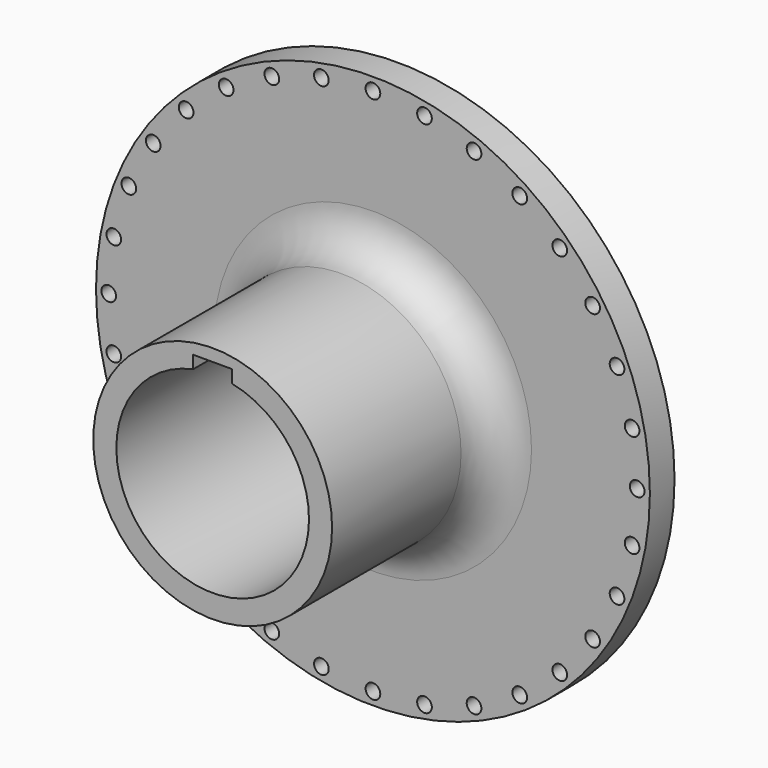
from build123d import *

# Parameters (mm, degrees)
F0_R      = 359.41
F1_DEPTH  = 300
F2_R      = 504.3357911894
F2_R_2    = 155
F3_DEPTH  = 260
F4_R      = 50.8
F5_R      = 125
F6_DEPTH  = 708.66
F7_R      = 9.525
F8_DEPTH  = 109.22
F10_DEPTH = 340.868


with BuildPart() as f1:
    # F0 (on Front) → F1 (new body)
    with BuildSketch(Plane.XZ):
        Circle(F0_R)
    extrude(amount=F1_DEPTH)

    # F2 (on face) → F3 (cut)
    with BuildSketch(Plane.XZ.offset(300)):
        Circle(F2_R)
        Circle(F2_R_2, mode=Mode.SUBTRACT)
    extrude(amount=-F3_DEPTH, mode=Mode.SUBTRACT)

    # F4
    f4_edges = [f1.edges().sort_by_distance(p)[0] for p in [
        (-155, -40, 0),
    ]]
    fillet(f4_edges, radius=F4_R)

    # F5 (on face) → F6 (cut)
    with BuildSketch(Plane.XZ.offset(300)):
        Circle(F5_R)
    extrude(amount=-F6_DEPTH, mode=Mode.SUBTRACT)

    # F7 (on face) → F8 (cut)
    with BuildSketch(Plane.XZ.offset(40)):
        with Locations((0, 342.9)):
            Circle(F7_R)
        with Locations((-66.8964714193, 336.3112726503)):
            Circle(F7_R)
        with Locations((-131.222148958, 316.7982916981)):
            Circle(F7_R)
        with Locations((-190.5050329024, 285.1109300585)):
            Circle(F7_R)
        with Locations((-242.4669152689, 242.4669152689)):
            Circle(F7_R)
        with Locations((-285.1109300585, 190.5050329024)):
            Circle(F7_R)
        with Locations((-316.7982916981, 131.222148958)):
            Circle(F7_R)
        with Locations((-336.3112726503, 66.8964714193)):
            Circle(F7_R)
        with Locations((-342.9, 0)):
            Circle(F7_R)
        with Locations((-336.3112726503, -66.8964714193)):
            Circle(F7_R)
        with Locations((-316.7982916981, -131.222148958)):
            Circle(F7_R)
        with Locations((-285.1109300585, -190.5050329024)):
            Circle(F7_R)
        with Locations((-242.4669152689, -242.4669152689)):
            Circle(F7_R)
        with Locations((-190.5050329024, -285.1109300585)):
            Circle(F7_R)
        with Locations((-131.222148958, -316.7982916981)):
            Circle(F7_R)
        with Locations((-66.8964714193, -336.3112726503)):
            Circle(F7_R)
        with Locations((0, -342.9)):
            Circle(F7_R)
        with Locations((66.8964714193, -336.3112726503)):
            Circle(F7_R)
        with Locations((131.222148958, -316.7982916981)):
            Circle(F7_R)
        with Locations((190.5050329024, -285.1109300585)):
            Circle(F7_R)
        with Locations((242.4669152689, -242.4669152689)):
            Circle(F7_R)
        with Locations((285.1109300585, -190.5050329024)):
            Circle(F7_R)
        with Locations((316.7982916981, -131.222148958)):
            Circle(F7_R)
        with Locations((336.3112726503, -66.8964714193)):
            Circle(F7_R)
        with Locations((342.9, 0)):
            Circle(F7_R)
        with Locations((336.3112726503, 66.8964714193)):
            Circle(F7_R)
        with Locations((316.7982916981, 131.222148958)):
            Circle(F7_R)
        with Locations((285.1109300585, 190.5050329024)):
            Circle(F7_R)
        with Locations((242.4669152689, 242.4669152689)):
            Circle(F7_R)
        with Locations((190.5050329024, 285.1109300585)):
            Circle(F7_R)
        with Locations((131.222148958, 316.7982916981)):
            Circle(F7_R)
        with Locations((66.8964714193, 336.3112726503)):
            Circle(F7_R)
    extrude(amount=-F8_DEPTH, mode=Mode.SUBTRACT)

    # F9 (on face) → F10 (cut)
    with BuildSketch(Plane.XZ.offset(300)):
        with BuildLine():
            Line((0, 125), (0, 0))
            Line((0, 0), (25.4, 0))
            Line((25.4, 0), (25.4, 122.3921566114))
            ThreePointArc((25.4, 122.3921566114), (12.766761993, 124.3463300151), (0, 125))
        make_face()
        with BuildLine():
            ThreePointArc((-25.4, 122.3921566114), (-12.766761993, 124.3463300151), (0, 125))
            Line((0, 125), (0, 139.0471624903))
            Line((0, 139.0471624903), (-25.4, 139.0471624903))
            Line((-25.4, 139.0471624903), (-25.4, 122.3921566114))
        make_face()
        with BuildLine():
            Line((-25.4, 0), (0, 0))
            Line((0, 0), (0, 125))
            ThreePointArc((0, 125), (-12.766761993, 124.3463300151), (-25.4, 122.3921566114))
            Line((-25.4, 122.3921566114), (-25.4, 0))
        make_face()
        with BuildLine():
            Line((0, 139.0471624903), (0, 125))
            ThreePointArc((0, 125), (12.766761993, 124.3463300151), (25.4, 122.3921566114))
            Line((25.4, 122.3921566114), (25.4, 139.0471624903))
            Line((25.4, 139.0471624903), (0, 139.0471624903))
        make_face()
    extrude(amount=-F10_DEPTH, mode=Mode.SUBTRACT)


solid = f1.part
